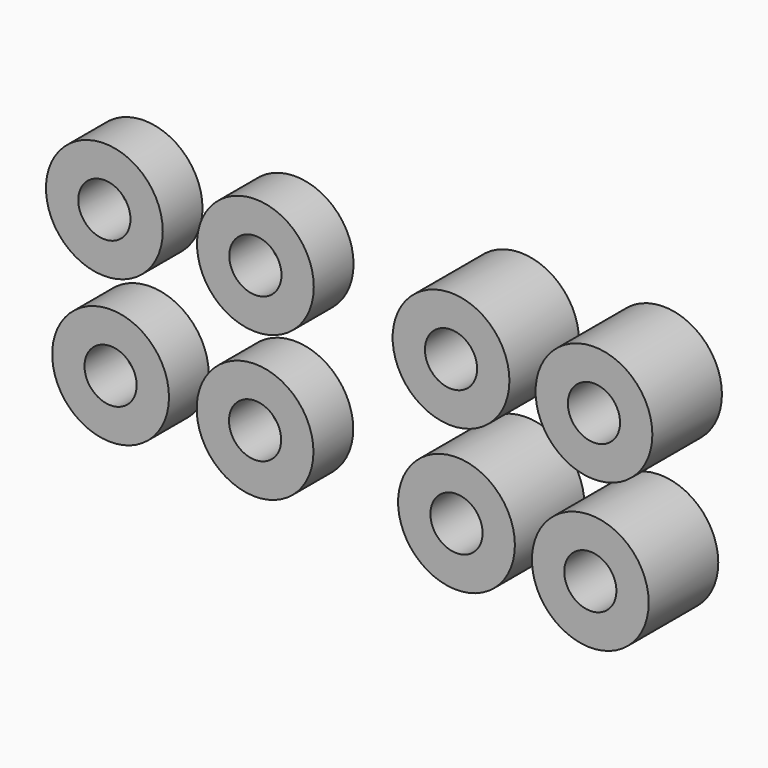
from build123d import *

# Parameters (mm, degrees)
F0_R     = 4.7
F0_R_2   = 2.1
F1_DEPTH = 7
F2_DEPTH = 4


with BuildPart() as f1:
    # F0 (on Front) → F1 (new body)
    with BuildSketch(Plane.XZ):
        with Locations((18.172415, 12.16969)):
            Circle(F0_R)
        with Locations((18.172415, 12.16969)):
            Circle(F0_R_2, mode=Mode.SUBTRACT)
        with Locations((29.677156, 12.096411)):
            Circle(F0_R)
        with Locations((29.677156, 12.096411)):
            Circle(F0_R_2, mode=Mode.SUBTRACT)
        with Locations((29.384041, 0.078719)):
            Circle(F0_R)
        with Locations((29.384041, 0.078719)):
            Circle(F0_R_2, mode=Mode.SUBTRACT)
        with Locations((18.612085, 0.664948)):
            Circle(F0_R)
        with Locations((18.612085, 0.664948)):
            Circle(F0_R_2, mode=Mode.SUBTRACT)
    extrude(amount=F1_DEPTH)


with BuildPart() as f2:
    # F0 (on Front) → F2 (new body)
    with BuildSketch(Plane.XZ):
        with Locations((-12.130689, 11.688724)):
            Circle(F0_R)
        with Locations((-12.130689, 11.688724)):
            Circle(F0_R_2, mode=Mode.SUBTRACT)
        with Locations((0.025822, 11.688724)):
            Circle(F0_R)
        with Locations((0.025822, 11.688724)):
            Circle(F0_R_2, mode=Mode.SUBTRACT)
        Circle(F0_R)
        Circle(F0_R_2, mode=Mode.SUBTRACT)
        with Locations((-11.63006, 0.085095)):
            Circle(F0_R)
        with Locations((-11.63006, 0.085095)):
            Circle(F0_R_2, mode=Mode.SUBTRACT)
    extrude(amount=F2_DEPTH)


solid = Compound([f1.part, f2.part])
